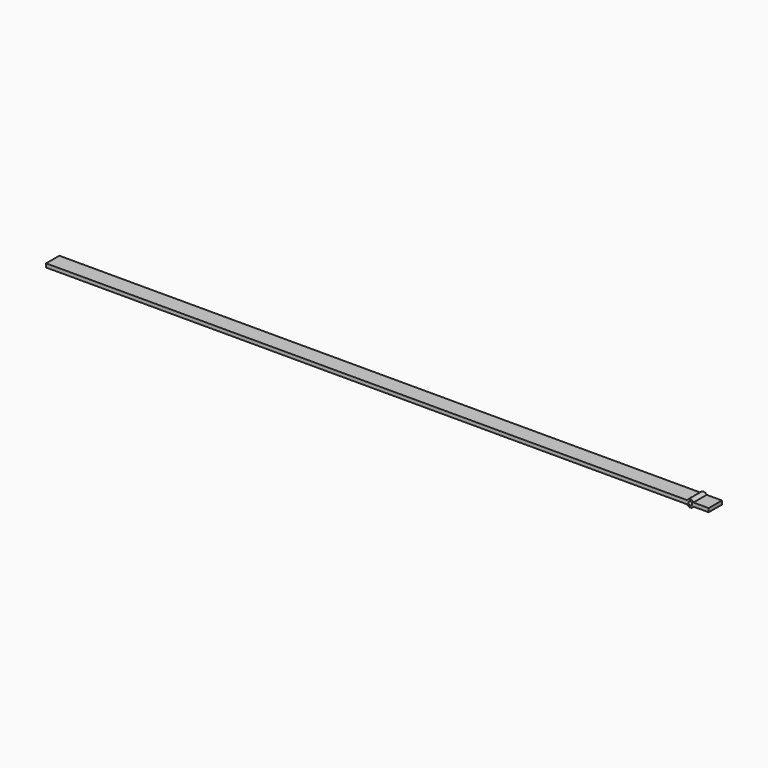
from build123d import *

# Parameters (mm, degrees)
F1_DEPTH = 45
F3_D     = 10.5


with BuildPart() as f1:
    # F0 (on Front) → F1 (new body)
    with BuildSketch(Plane.XZ):
        with BuildLine():
            Line((-58.6602540378, 5), (-1801.7049721594, 5))
            Line((-1801.7049721594, 5), (-1801.7049721594, -5))
            Line((-1801.7049721594, -5), (-58.6602540378, -5))
            ThreePointArc((-58.6602540378, -5), (-60, 0), (-58.6602540378, 5))
        make_face()
        with BuildLine():
            ThreePointArc((-41.3397459622, 5), (-50, 10), (-58.6602540378, 5))
            ThreePointArc((-58.6602540378, 5), (-60, 0), (-58.6602540378, -5))
            ThreePointArc((-58.6602540378, -5), (-50, -10), (-41.3397459622, -5))
            ThreePointArc((-41.3397459622, -5), (-40.3407417371, -2.588190451), (-40, 0))
            ThreePointArc((-40, 0), (-40.3407417371, 2.588190451), (-41.3397459622, 5))
        make_face()
        with BuildLine():
            Line((0, 5), (-41.3397459622, 5))
            ThreePointArc((-41.3397459622, 5), (-40.3407417371, 2.588190451), (-40, 0))
            ThreePointArc((-40, 0), (-40.3407417371, -2.588190451), (-41.3397459622, -5))
            Line((-41.3397459622, -5), (0, -5))
            Line((0, -5), (0, 5))
        make_face()
    extrude(amount=F1_DEPTH)

    # F3 (through all)
    with Locations(Plane.XZ.offset(45)):
        with Locations((-50, 0)):
            Hole(F3_D / 2)


solid = f1.part
